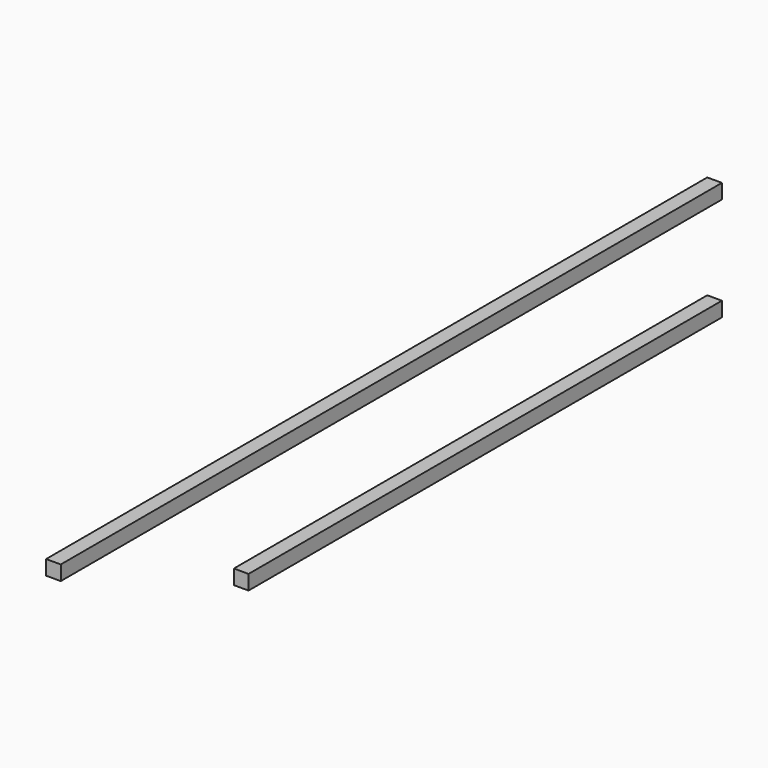
from build123d import *

# Parameters (mm, degrees)
F0_W     = 38.1
F0_H     = 38.1
F1_DEPTH = 1536.7
F3_DEPTH = 609.6


with BuildPart() as f1:
    # F0 (on Front) → F1 (new body)
    with BuildSketch(Plane.XZ):
        Rectangle(F0_W, F0_H)
    extrude(amount=F1_DEPTH)


with BuildPart() as f2_1:
    # F2: copy of F1
    add(f1.part.moved(Location((0, 0, 269.4203))))

    # F3 (add): a face of the model
    f3_faces = [f2_1.faces().sort_by_distance(p)[0] for p in [
        (0, -1536.7, 269.4203),
    ]]
    extrude(f3_faces, amount=F3_DEPTH)


solid = Compound([f1.part, f2_1.part])
